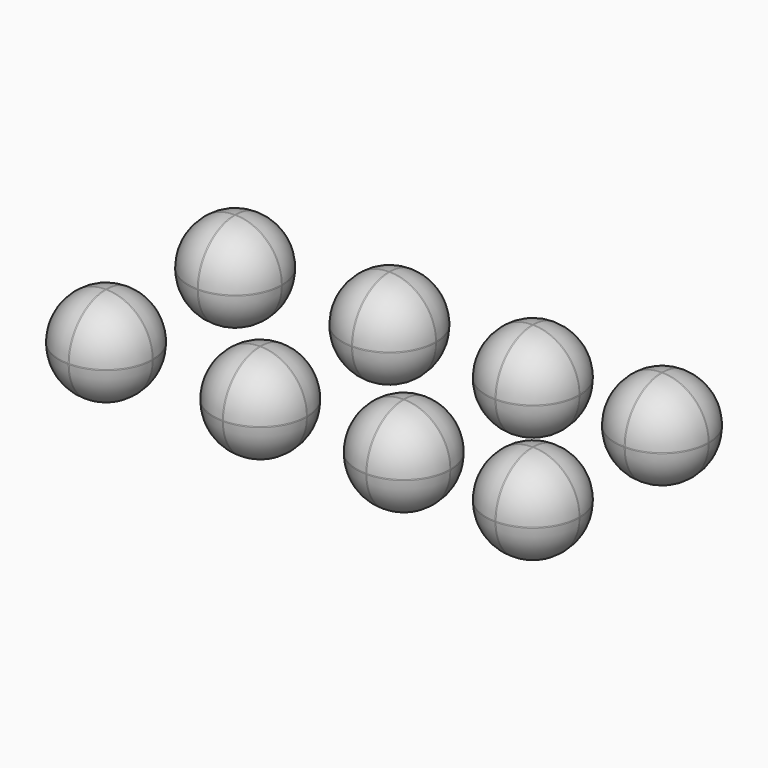
from build123d import *

# Parameters (mm, degrees)
F0_W     = 12.094535
F0_H     = 12.094533
F0_H_2   = 12.094536
F0_W_2   = 12.094536
F1_DEPTH = 12.0904
F2_R     = 5.97662


with BuildPart() as f1:
    # F0 (on Top) → F1 (new body)
    with BuildSketch(Plane.XY):
        with Locations((-55.239461, 33.143678)):
            Rectangle(F0_W, F0_H)
        with Locations((-55.239461, 12.210829)):
            Rectangle(F0_W, F0_H_2)
        with Locations((-35.236963, 33.143678)):
            Rectangle(F0_W, F0_H)
        with Locations((-35.236963, 12.210829)):
            Rectangle(F0_W, F0_H_2)
        with Locations((-16.629986, 33.143678)):
            Rectangle(F0_W_2, F0_H)
        with Locations((0.116293, 33.143678)):
            Rectangle(F0_W, F0_H)
        with Locations((-16.629986, 12.210829)):
            Rectangle(F0_W_2, F0_H_2)
        with Locations((0.116293, 12.210829)):
            Rectangle(F0_W, F0_H_2)
    extrude(amount=F1_DEPTH)

    # F2
    f2_edges = [f1.edges().sort_by_distance(p)[0] for p in [
        (-61.286729, 33.143678, 12.0904),
        (-55.239461, 27.096411, 12.0904),
        (-55.239461, 39.190944, 12.0904),
        (-49.192194, 33.143678, 12.0904),
        (-41.28423, 33.143678, 12.0904),
        (-35.236962, 27.096411, 12.0904),
        (-29.189695, 33.143678, 12.0904),
        (-35.236962, 39.190944, 12.0904),
        (-16.629986, 39.190944, 12.0904),
        (-22.677254, 33.143678, 12.0904),
        (-16.629986, 27.096411, 12.0904),
        (-10.582718, 33.143678, 12.0904),
        (-5.930974, 33.143678, 12.0904),
        (0.116294, 39.190944, 12.0904),
        (6.163561, 33.143678, 12.0904),
        (0.116294, 27.096411, 12.0904),
        (0.116294, 18.258097, 12.0904),
        (6.163561, 12.210829, 12.0904),
        (0.116294, 6.163561, 12.0904),
        (-5.930974, 12.210829, 12.0904),
        (-10.582718, 12.210829, 12.0904),
        (-16.629986, 6.163561, 12.0904),
        (-16.629986, 18.258097, 12.0904),
        (-22.677254, 12.210829, 12.0904),
        (-35.236962, 6.163561, 12.0904),
        (-29.189695, 12.210829, 12.0904),
        (-35.236962, 18.258097, 12.0904),
        (-41.28423, 12.210829, 12.0904),
        (-49.192194, 12.210829, 12.0904),
        (-55.239461, 6.163561, 12.0904),
        (-61.286729, 12.210829, 12.0904),
        (-55.239461, 18.258097, 12.0904),
        (6.163561, 6.163561, 6.0452),
        (-5.930974, 6.163561, 6.0452),
        (-10.582718, 6.163561, 6.0452),
        (-22.677254, 6.163561, 6.0452),
        (-29.189695, 6.163561, 6.0452),
        (-41.28423, 6.163561, 6.0452),
        (-49.192194, 6.163561, 6.0452),
        (-61.286729, 6.163561, 6.0452),
        (6.163561, 12.210829, 0),
        (0.116294, 18.258097, 0),
        (-5.930974, 12.210829, 0),
        (-10.582718, 12.210829, 0),
        (-22.677254, 12.210829, 0),
        (-16.629986, 18.258097, 0),
        (-29.189695, 12.210829, 0),
        (-41.28423, 12.210829, 0),
        (-35.236962, 18.258097, 0),
        (-49.192194, 12.210829, 0),
        (-55.239461, 18.258097, 0),
        (-61.286729, 12.210829, 0),
        (-35.236962, 6.163561, 0),
        (-55.239461, 6.163561, 0),
        (-16.629986, 6.163561, 0),
        (0.116294, 6.163561, 0),
        (0.116294, 27.096411, 0),
        (6.163561, 33.143678, 0),
        (0.116294, 39.190944, 0),
        (-5.930974, 33.143678, 0),
        (-16.629986, 27.096411, 0),
        (-10.582718, 33.143678, 0),
        (-22.677254, 33.143678, 0),
        (-16.629986, 39.190944, 0),
        (-35.236962, 27.096411, 0),
        (-29.189695, 33.143678, 0),
        (-41.28423, 33.143678, 0),
        (-35.236962, 39.190944, 0),
        (-55.239461, 39.190944, 0),
        (-49.192194, 33.143678, 0),
        (-55.239461, 27.096411, 0),
        (-61.286729, 33.143678, 0),
        (-61.286729, 18.258097, 6.0452),
        (-61.286729, 39.190944, 6.0452),
        (-61.286729, 27.096411, 6.0452),
        (-49.192194, 18.258097, 6.0452),
        (-49.192194, 39.190944, 6.0452),
        (-49.192194, 27.096411, 6.0452),
        (-29.189695, 18.258097, 6.0452),
        (-29.189695, 39.190944, 6.0452),
        (-29.189695, 27.096411, 6.0452),
        (-10.582718, 27.096411, 6.0452),
        (-22.677254, 27.096411, 6.0452),
        (-10.582718, 39.190944, 6.0452),
        (-22.677254, 39.190944, 6.0452),
        (6.163561, 27.096411, 6.0452),
        (6.163561, 39.190944, 6.0452),
        (-5.930974, 39.190944, 6.0452),
        (6.163561, 18.258097, 6.0452),
        (-5.930974, 18.258097, 6.0452),
        (-10.582718, 18.258097, 6.0452),
        (-22.677254, 18.258097, 6.0452),
        (-41.28423, 18.258097, 6.0452),
        (-41.28423, 39.190944, 6.0452),
        (-5.930974, 27.096411, 6.0452),
        (-41.28423, 27.096411, 6.0452),
    ]]
    fillet(f2_edges, radius=F2_R)


solid = f1.part
